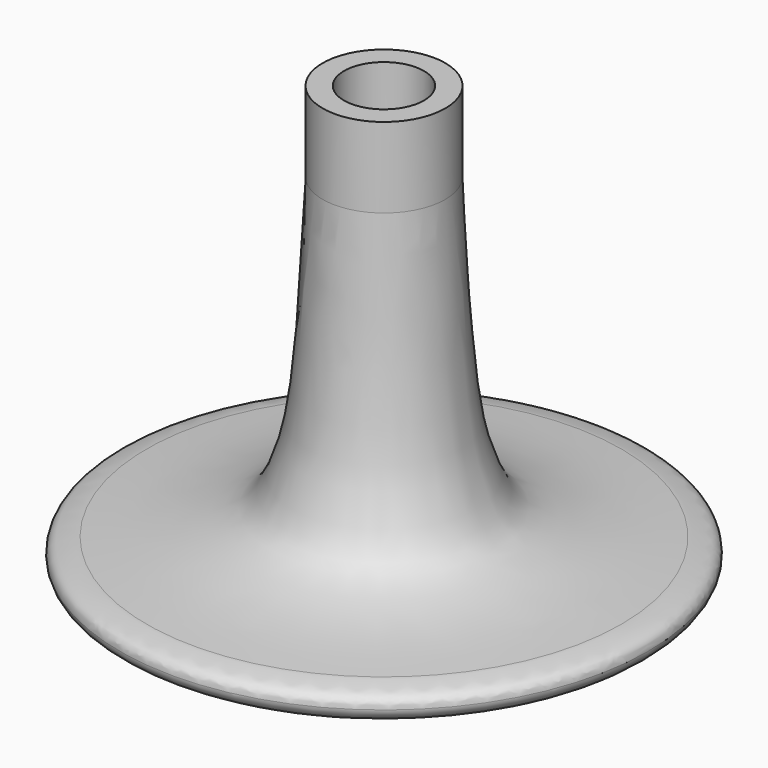
from build123d import *


with BuildPart() as f1:
    # F0 (on Front) → F1 (revolve)
    with BuildSketch(Plane.XZ):
        with BuildLine():
            Line((1.5875, 6.667825859), (1.5875, -12.9610260137))
            add(Edge.make_bspline(
                [(1.5875, -12.9610260137), (1.8724662747, -11.5686269888), (2.4845312419, -8.5779619908), (4.3063683854, -1.5815812013), (18.4278924431, -1.1535487248), (27.4095754611, -1.111245668), (30.3098711883, -0.2068596228), (31.3225043371, 0.7573851032), (31.4157204905, 1.3347212449), (31.4195560348, 1.4616048976)],
                knots=[0, 0, 0, 0, 0.1137599478, 0.2443393653, 0.4401724208, 0.6049852319, 0.6936657727, 0.7589791665, 0.7774982507, 0.7774982507, 0.7774982507, 0.7774982507], degree=3))
            add(Edge.make_bspline(
                [(31.4195560348, 1.4616048976), (31.427416239, 1.7216283354), (31.27992505, 2.3286648069), (30.573937311, 2.8565264178), (29.2405122483, 3.2049277973), (28.4112141117, 3.2738227195), (28.2629951835, 3.2793318387)],
                knots=[0.7774982507, 0.7774982507, 0.7774982507, 0.7774982507, 0.815449522, 0.8670419918, 0.9318776982, 0.9830086816, 0.9830086816, 0.9830086816, 0.9830086816], degree=3))
            add(Edge.make_bspline(
                [(28.2629951835, 3.2793318387), (25.3626970462, 3.4969143487), (20.4471896826, 3.8656793444), (16.7680467922, 5.0182870398), (12.3756029704, 6.2735634545), (9.8080422623, 12.2651864706), (8.2705298078, 20.6424053735), (7.6697151065, 33.2729418333), (7.3025, 40.9926660359)],
                knots=[0, 0, 0, 0, 0.1688196751, 0.2861203631, 0.4074464551, 0.552155039, 0.726279276, 1, 1, 1, 1], degree=3))
            Line((7.3025, 40.9926660359), (7.3025, 50.5389739863))
            Line((7.3025, 50.5389739863), (4.7625, 50.5389739863))
            Line((4.7625, 50.5389739863), (4.7625, 41.0139739863))
            Line((4.7625, 41.0139739863), (0, 41.0139739863))
            Line((0, 41.0139739863), (0, 6.667825859))
            Line((0, 6.667825859), (1.5875, 6.667825859))
        make_face()
    revolve(axis=Axis((0, 0, 23.8408999226), (0, 0, -1)))


solid = f1.part
